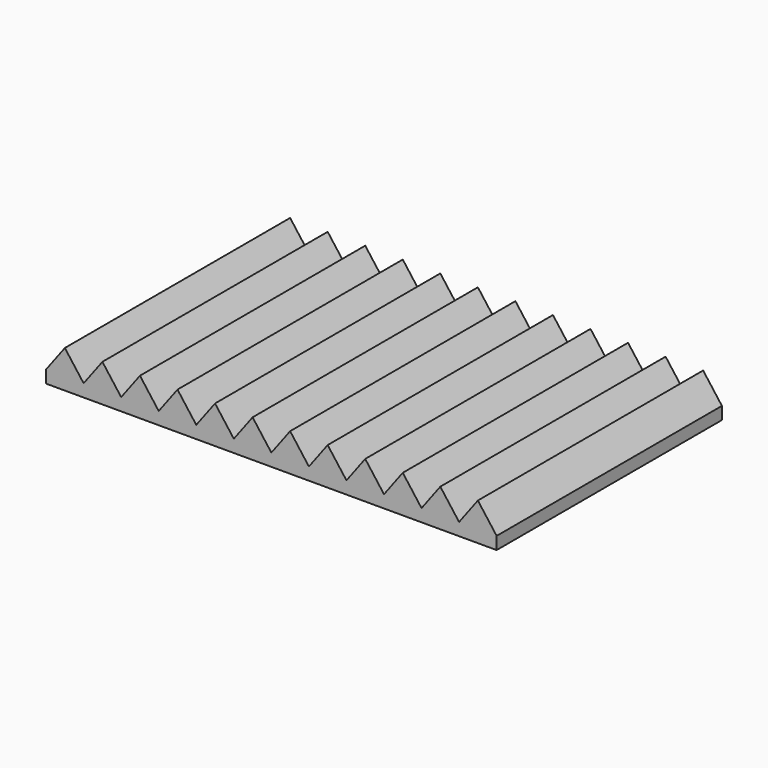
from build123d import *

# Parameters (mm, degrees)
F1_DEPTH = 254


with BuildPart() as f1:
    # F0 (on Front) → F1 (new body)
    with BuildSketch(Plane.XZ):
        Polygon((-198.966667, 6.35), (-198.966667, -4.938889), (207.433333, -4.938889), (207.433333, 6.35), (190.5, 6.35), (173.566667, 6.35), (156.633333, 6.35), (139.7, 6.35), (122.766667, 6.35), (105.833333, 6.35), (88.9, 6.35), (71.966667, 6.35), (55.033333, 6.35), (38.1, 6.35), (21.166667, 6.35), (4.233333, 6.35), (-12.7, 6.35), (-29.633333, 6.35), (-46.566667, 6.35), (-63.5, 6.35), (-80.433333, 6.35), (-97.366667, 6.35), (-114.3, 6.35), (-131.233333, 6.35), (-148.166667, 6.35), (-165.1, 6.35), (-182.033333, 6.35), align=None)
        Polygon((-182.033333, 28.927778), (-198.966667, 6.35), (-182.033333, 6.35), align=None)
        Polygon((190.5, 6.35), (207.433333, 6.35), (190.5, 28.927778), align=None)
        Polygon((-182.033333, 28.927778), (-182.033333, 6.35), (-165.1, 6.35), align=None)
        Polygon((173.566667, 6.35), (190.5, 6.35), (190.5, 28.927778), align=None)
        Polygon((-148.166667, 28.927778), (-165.1, 6.35), (-148.166667, 6.35), align=None)
        Polygon((156.633333, 6.35), (173.566667, 6.35), (156.633333, 28.927778), align=None)
        Polygon((-148.166667, 28.927778), (-148.166667, 6.35), (-131.233333, 6.35), align=None)
        Polygon((139.7, 6.35), (156.633333, 6.35), (156.633333, 28.927778), align=None)
        Polygon((-114.3, 28.927778), (-131.233333, 6.35), (-114.3, 6.35), align=None)
        Polygon((122.766667, 6.35), (139.7, 6.35), (122.766667, 28.927778), align=None)
        Polygon((-114.3, 28.927778), (-114.3, 6.35), (-97.366667, 6.35), align=None)
        Polygon((105.833333, 6.35), (122.766667, 6.35), (122.766667, 28.927778), align=None)
        Polygon((-80.433333, 28.927778), (-97.366667, 6.35), (-80.433333, 6.35), align=None)
        Polygon((88.9, 6.35), (105.833333, 6.35), (88.9, 28.927778), align=None)
        Polygon((-80.433333, 28.927778), (-80.433333, 6.35), (-63.5, 6.35), align=None)
        Polygon((71.966667, 6.35), (88.9, 6.35), (88.9, 28.927778), align=None)
        Polygon((-46.566667, 28.927778), (-63.5, 6.35), (-46.566667, 6.35), align=None)
        Polygon((55.033333, 6.35), (71.966667, 6.35), (55.033333, 28.927778), align=None)
        Polygon((-46.566667, 28.927778), (-46.566667, 6.35), (-29.633333, 6.35), align=None)
        Polygon((38.1, 6.35), (55.033333, 6.35), (55.033333, 28.927778), align=None)
        Polygon((-12.7, 28.927778), (-29.633333, 6.35), (-12.7, 6.35), align=None)
        Polygon((21.166667, 6.35), (38.1, 6.35), (21.166667, 28.927778), align=None)
        Polygon((-12.7, 28.927778), (-12.7, 6.35), (4.233333, 6.35), align=None)
        Polygon((4.233333, 6.35), (21.166667, 6.35), (21.166667, 28.927778), align=None)
    extrude(amount=F1_DEPTH)


solid = f1.part
